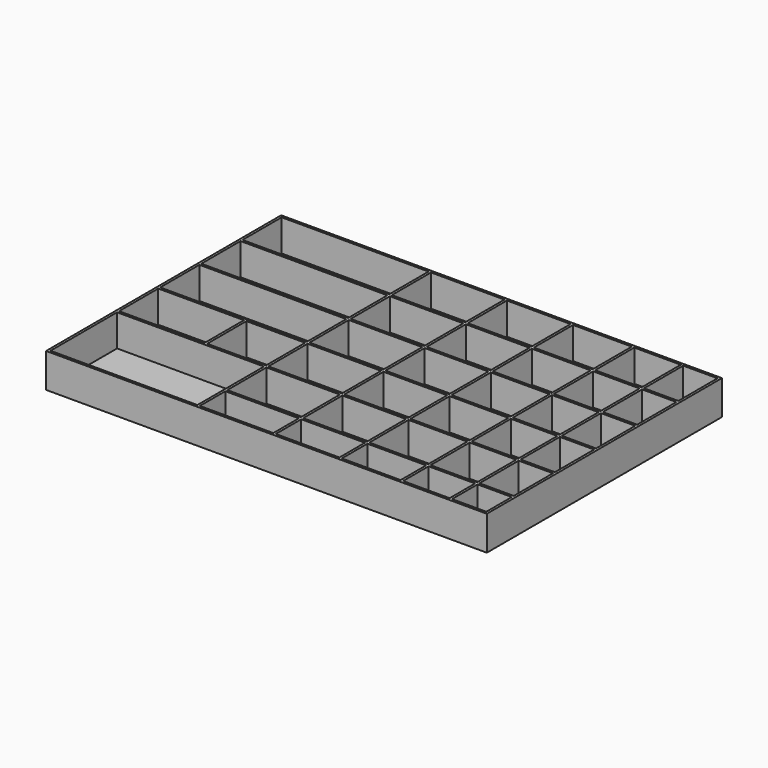
from build123d import *

# Parameters (mm, degrees)
F0_W     = 180
F0_H     = 120
F1_DEPTH = 1
F2_W     = 180
F2_H     = 120
F2_W_2   = 60
F2_H_2   = 34
F2_W_3   = 30
F2_H_3   = 13
F2_H_4   = 20
F2_W_4   = 35
F2_W_5   = 24
F2_W_6   = 26
F2_W_7   = 19
F2_W_8   = 14
F3_DEPTH = 14


with BuildPart() as f1:
    # F0 (on Top) → F1 (new body)
    with BuildSketch(Plane.XY):
        with Locations((-23.763961, -4.79302)):
            Rectangle(F0_W, F0_H)
    extrude(amount=F1_DEPTH)

    # F2 (on Top) → F3 (join)
    with BuildSketch(Plane.XY):
        with Locations((-23.763961, -4.79302)):
            Rectangle(F2_W, F2_H)
        with Locations((-82.763961, -46.79302)):
            Rectangle(F2_W_2, F2_H_2, mode=Mode.SUBTRACT)
        with Locations((-36.763961, -57.29302)):
            Rectangle(F2_W_3, F2_H_3, mode=Mode.SUBTRACT)
        with Locations((-36.763961, -39.79302)):
            Rectangle(F2_W_3, F2_H_4, mode=Mode.SUBTRACT)
        with Locations((-95.263961, -18.79302)):
            Rectangle(F2_W_4, F2_H_4, mode=Mode.SUBTRACT)
        with Locations((-64.763961, -18.79302)):
            Rectangle(F2_W_5, F2_H_4, mode=Mode.SUBTRACT)
        with Locations((-36.763961, -18.79302)):
            Rectangle(F2_W_3, F2_H_4, mode=Mode.SUBTRACT)
        with Locations((-7.763961, -57.29302)):
            Rectangle(F2_W_6, F2_H_3, mode=Mode.SUBTRACT)
        with Locations((18.236039, -57.29302)):
            Rectangle(F2_W_5, F2_H_3, mode=Mode.SUBTRACT)
        with Locations((-7.763961, -39.79302)):
            Rectangle(F2_W_6, F2_H_4, mode=Mode.SUBTRACT)
        with Locations((18.236039, -39.79302)):
            Rectangle(F2_W_5, F2_H_4, mode=Mode.SUBTRACT)
        with Locations((40.736039, -57.29302)):
            Rectangle(F2_W_7, F2_H_3, mode=Mode.SUBTRACT)
        with Locations((58.236039, -57.29302)):
            Rectangle(F2_W_8, F2_H_3, mode=Mode.SUBTRACT)
        with Locations((40.736039, -39.79302)):
            Rectangle(F2_W_7, F2_H_4, mode=Mode.SUBTRACT)
        with Locations((58.236039, -39.79302)):
            Rectangle(F2_W_8, F2_H_4, mode=Mode.SUBTRACT)
        with Locations((-7.763961, -18.79302)):
            Rectangle(F2_W_6, F2_H_4, mode=Mode.SUBTRACT)
        with Locations((18.236039, -18.79302)):
            Rectangle(F2_W_5, F2_H_4, mode=Mode.SUBTRACT)
        with Locations((40.736039, -18.79302)):
            Rectangle(F2_W_7, F2_H_4, mode=Mode.SUBTRACT)
        with Locations((58.236039, -18.79302)):
            Rectangle(F2_W_8, F2_H_4, mode=Mode.SUBTRACT)
        with Locations((-82.763961, 2.20698)):
            Rectangle(F2_W_2, F2_H_4, mode=Mode.SUBTRACT)
        with Locations((-82.763961, 23.20698)):
            Rectangle(F2_W_2, F2_H_4, mode=Mode.SUBTRACT)
        with Locations((-36.763961, 2.20698)):
            Rectangle(F2_W_3, F2_H_4, mode=Mode.SUBTRACT)
        with Locations((-36.763961, 23.20698)):
            Rectangle(F2_W_3, F2_H_4, mode=Mode.SUBTRACT)
        with Locations((-82.763961, 44.20698)):
            Rectangle(F2_W_2, F2_H_4, mode=Mode.SUBTRACT)
        with Locations((-36.763961, 44.20698)):
            Rectangle(F2_W_3, F2_H_4, mode=Mode.SUBTRACT)
        with Locations((-7.763961, 2.20698)):
            Rectangle(F2_W_6, F2_H_4, mode=Mode.SUBTRACT)
        with Locations((18.236039, 2.20698)):
            Rectangle(F2_W_5, F2_H_4, mode=Mode.SUBTRACT)
        with Locations((-7.763961, 23.20698)):
            Rectangle(F2_W_6, F2_H_4, mode=Mode.SUBTRACT)
        with Locations((18.236039, 23.20698)):
            Rectangle(F2_W_5, F2_H_4, mode=Mode.SUBTRACT)
        with Locations((40.736039, 2.20698)):
            Rectangle(F2_W_7, F2_H_4, mode=Mode.SUBTRACT)
        with Locations((58.236039, 2.20698)):
            Rectangle(F2_W_8, F2_H_4, mode=Mode.SUBTRACT)
        with Locations((40.736039, 23.20698)):
            Rectangle(F2_W_7, F2_H_4, mode=Mode.SUBTRACT)
        with Locations((58.236039, 23.20698)):
            Rectangle(F2_W_8, F2_H_4, mode=Mode.SUBTRACT)
        with Locations((-7.763961, 44.20698)):
            Rectangle(F2_W_6, F2_H_4, mode=Mode.SUBTRACT)
        with Locations((18.236039, 44.20698)):
            Rectangle(F2_W_5, F2_H_4, mode=Mode.SUBTRACT)
        with Locations((40.736039, 44.20698)):
            Rectangle(F2_W_7, F2_H_4, mode=Mode.SUBTRACT)
        with Locations((58.236039, 44.20698)):
            Rectangle(F2_W_8, F2_H_4, mode=Mode.SUBTRACT)
    extrude(amount=F3_DEPTH)


solid = f1.part
